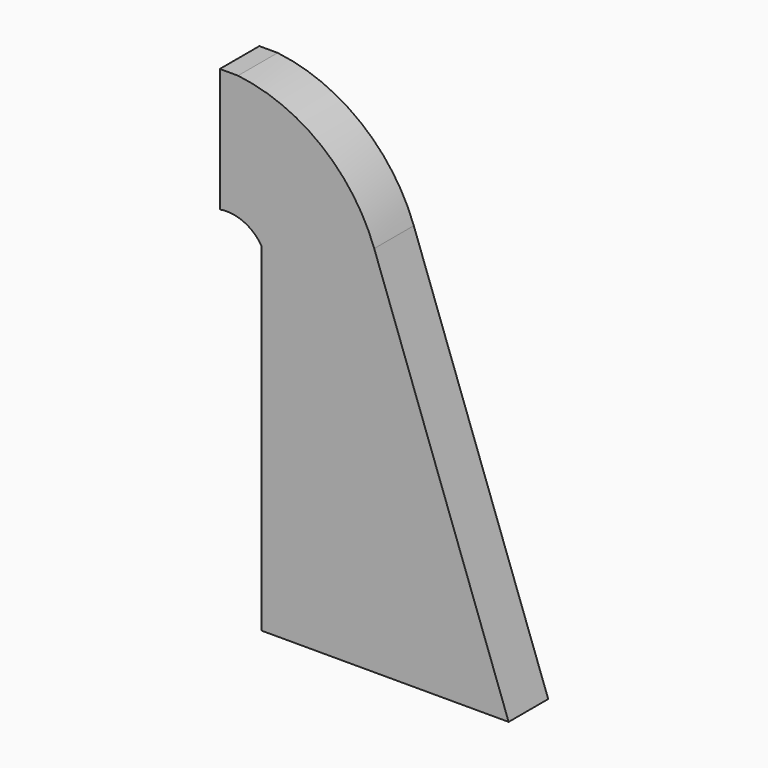
from build123d import *

# Parameters (mm, degrees)
F1_DEPTH = 12


with BuildPart() as f1:
    # F0 (on Front) → F1 (new body)
    with BuildSketch(Plane.XZ):
        with BuildLine():
            Line((-186.069152, -74.32252), (-126.069152, -74.32252))
            Line((-126.069152, -74.32252), (-158.675236, 16.162393))
            ThreePointArc((-158.675236, 16.162393), (-171.463046, 33.951656), (-191.703691, 42.336301))
            Line((-191.703691, 42.336301), (-196.131691, 42.336301))
            Line((-196.131691, 42.336301), (-196.131691, 12.336301))
            ThreePointArc((-196.131691, 12.336301), (-190.443082, 11.643115), (-186.069152, 7.94048))
            Line((-186.069152, 7.94048), (-186.069152, -74.32252))
        make_face()
    extrude(amount=F1_DEPTH)


solid = f1.part
